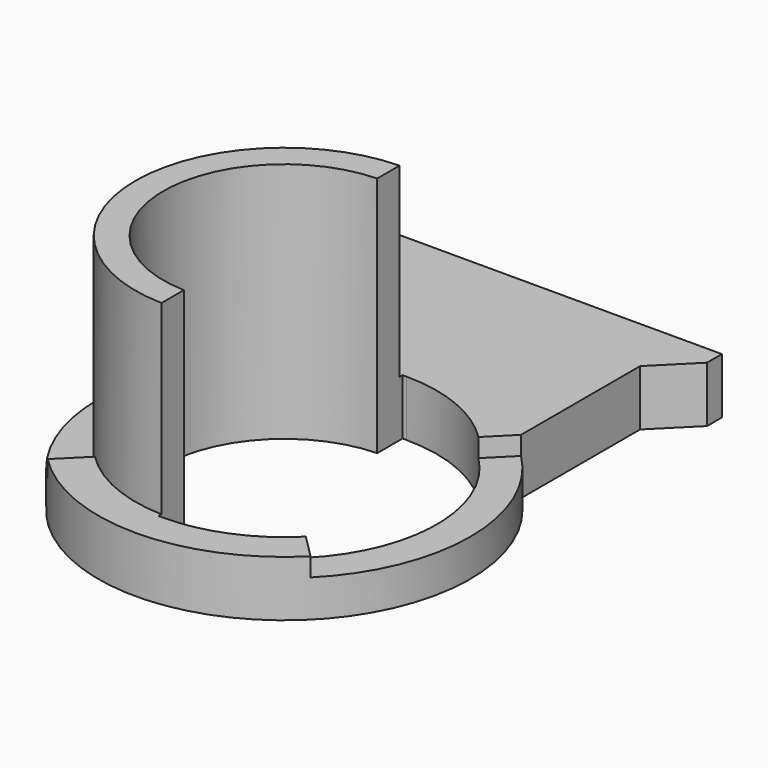
from build123d import *

# Parameters (mm, degrees)
SKETCH020_R     = 10
PAD007_DEPTH    = 3
POCKET012_DEPTH = 1
SKETCH022_R     = 8
POCKET013_DEPTH = 5
PAD008_DEPTH    = 13
POCKET014_DEPTH = 20
PAD009_DEPTH    = 3


with BuildPart() as part:
    # Sketch020 → Pad007 (new body)
    with BuildSketch(Plane.XY):
        Circle(SKETCH020_R)
    extrude(amount=PAD007_DEPTH)

    # Sketch021 (on Face3 of Pad007) → Pocket012 (cut)
    with BuildSketch(Plane.XY.offset(3)):
        with BuildLine():
            Line((0, 0), (7.071068, 7.071068))
            ThreePointArc((7.071068, -7.071068), (10, 0), (7.071068, 7.071068))
            Line((0, 0), (7.071068, -7.071068))
        make_face()
        with BuildLine():
            ThreePointArc((-7.071068, 7.071068), (-10, 0), (-7.071068, -7.071068))
            Line((0, 0), (-7.071068, -7.071068))
            Line((0, 0), (-7.071068, 7.071068))
        make_face()
    extrude(amount=-POCKET012_DEPTH, mode=Mode.SUBTRACT)

    # Sketch022 (on Face9 of Pocket012) → Pocket013 (cut)
    with BuildSketch(Plane.XY.offset(3)):
        Circle(SKETCH022_R)
    extrude(amount=-POCKET013_DEPTH, mode=Mode.SUBTRACT)

    # Sketch023 → Pad008 (join)
    with BuildSketch(Plane.XY):
        with BuildLine():
            Line((0, 6.5), (0, 8))
            ThreePointArc((0, 8), (-8, 0), (0, -8))
            Line((0, -6.5), (0, -8))
            ThreePointArc((0, 6.5), (-6.5, 0), (0, -6.5))
        make_face()
    extrude(amount=PAD008_DEPTH)

    # Sketch024 (on Face14 of Pad008) → Pocket014 (cut)
    with BuildSketch(Plane.XY.offset(13)):
        with BuildLine():
            ThreePointArc((0, -8.2), (8.2, 0), (0, 8.2))
            Line((0, 8.2), (-0.2, 8.2))
            Line((-0.2, -8.2), (-0.2, 8.2))
            Line((0, -8.2), (-0.2, -8.2))
        make_face()
    extrude(amount=-POCKET014_DEPTH, mode=Mode.SUBTRACT)

    # Sketch025 → Pad009 (join)
    with BuildSketch(Plane.XY):
        with BuildLine():
            Line((-7.071068, 7.071068), (-7.071068, 15.071068))
            Line((-7.071068, 15.071068), (-9.071068, 17.071068))
            Line((-9.071068, 18.071068), (-9.071068, 17.071068))
            Line((-9.071068, 18.071068), (9.071068, 18.071068))
            Line((9.071068, 18.071068), (9.071068, 17.071068))
            Line((9.071068, 17.071068), (7.071068, 15.071068))
            Line((7.071068, 7.071068), (7.071068, 15.071068))
            ThreePointArc((7.071068, 7.071068), (0, 10), (-7.071068, 7.071068))
        make_face()
    extrude(amount=PAD009_DEPTH)


with BuildPart() as part_1:
    # Body007 placement: moved
    add(part.part.moved(Location((-50, 75, 0))))


solid = part_1.part
